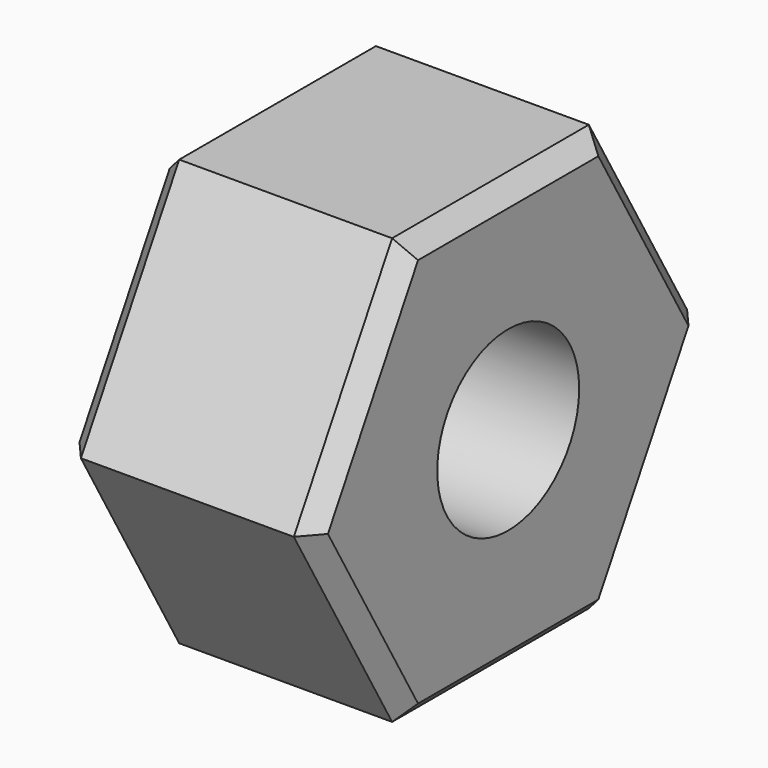
from build123d import *

# Parameters (mm, degrees)
F0_R     = 2.5
F3_DEPTH = 6
F1_R     = 1
F4_DEPTH = 5
F5_DEPTH = 5
F2_R     = 1
F6_DEPTH = 5
F7_DEPTH = 5
F8_SIZE  = 0.5
F9_DEPTH = 1
F10_SIZE = 0.5


with BuildPart() as f3:
    # F0 (on Right) → F3 (new body)
    with BuildSketch(Plane.YZ):
        Polygon((3.4641016151, 6), (-3.4641016151, 6), (-6.9282032303, 0), (-3.4641016151, -6), (3.4641016151, -6), (6.9282032303, 0), align=None)
        Circle(F0_R, mode=Mode.SUBTRACT)
    extrude(amount=F3_DEPTH)

    # F1 (on Front) → F4 (cut)
    with BuildSketch(Plane.XZ):
        Circle(F1_R)
    extrude(amount=-F4_DEPTH, mode=Mode.SUBTRACT)

    # F1 (on Front) → F5 (cut)
    with BuildSketch(Plane.XZ):
        Circle(F1_R)
    extrude(amount=F5_DEPTH, mode=Mode.SUBTRACT)

    # F2 (on Top) → F6 (cut)
    with BuildSketch(Plane.XY):
        Circle(F2_R)
    extrude(amount=-F6_DEPTH, mode=Mode.SUBTRACT)

    # F2 (on Top) → F7 (cut)
    with BuildSketch(Plane.XY):
        Circle(F2_R)
    extrude(amount=F7_DEPTH, mode=Mode.SUBTRACT)

    # F8
    f8_edges = [f3.edges().sort_by_distance(p)[0] for p in [
        (6, 0, -6),
        (6, 5.196152, -3),
        (6, 5.196152, 3),
        (6, 0, 6),
        (6, -5.196152, 3),
        (6, -5.196152, -3),
    ]]
    chamfer(f8_edges, length=F8_SIZE)

    # F9 (add): a face of the model
    f9_faces = [f3.faces().sort_by_distance(p)[0] for p in [
        (0, 5.037407344, 2.9083484861),
    ]]
    extrude(f9_faces, amount=F9_DEPTH)

    # F10
    f10_edges = [f3.edges().sort_by_distance(p)[0] for p in [
        (-1, -5.196152, -3),
        (-1, 5.196152, -3),
        (-1, 0, -6),
        (-1, 0, 6),
        (-1, 5.196152, 3),
        (-1, -5.196152, 3),
    ]]
    chamfer(f10_edges, length=F10_SIZE)


solid = f3.part
